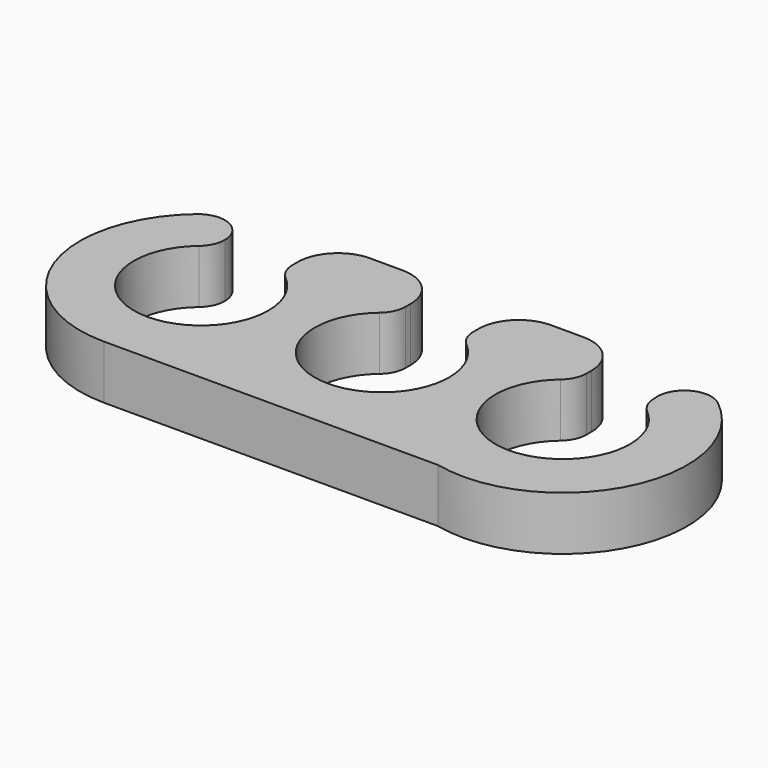
from build123d import *

# Parameters (mm, degrees)
F1_DEPTH = 2


with BuildPart() as f1:
    # F0 (on Top) → F1 (new body)
    with BuildSketch(Plane.XY):
        with BuildLine():
            ThreePointArc((-2.853481, -9.527818), (-4.466384, -13.937934), (-6.079287, -9.527818))
            ThreePointArc((-6.079287, -9.527818), (-5.817486, -9.184984), (-5.724449, -8.763772))
            ThreePointArc((-5.724449, -8.763772), (-6.303237, -7.85681), (-7.36961, -7.999726))
            ThreePointArc((-7.36961, -7.999726), (-8.692608, -12.983583), (-4.466384, -15.937934))
            Line((-4.466384, -15.937934), (7.933616, -15.937934))
            ThreePointArc((7.933616, -15.937934), (13.128044, -13.435908), (11.831449, -7.817985))
            ThreePointArc((11.831449, -7.817985), (10.703679, -7.740165), (10.223938, -8.763772))
            ThreePointArc((10.223938, -8.763772), (10.316976, -9.184984), (10.578777, -9.527818))
            ThreePointArc((10.578777, -9.527818), (8.965874, -13.937934), (7.352971, -9.527818))
            ThreePointArc((7.352971, -9.527818), (7.614772, -9.184984), (7.707809, -8.763772))
            Line((7.707809, -8.763772), (7.707809, -8.532316))
            ThreePointArc((7.707809, -8.532316), (7.26847, -7.471656), (6.207809, -7.032316))
            Line((6.207809, -7.032316), (5.007809, -7.032316))
            ThreePointArc((5.007809, -7.032316), (3.947149, -7.471656), (3.507809, -8.532316))
            Line((3.507809, -8.532316), (3.507809, -8.763772))
            ThreePointArc((3.507809, -8.763772), (3.600847, -9.184984), (3.862648, -9.527818))
            ThreePointArc((3.862648, -9.527818), (2.249745, -13.937934), (0.636842, -9.527818))
            ThreePointArc((0.636842, -9.527818), (0.898643, -9.184984), (0.99168, -8.763772))
            Line((0.99168, -8.763772), (0.99168, -8.532316))
            ThreePointArc((0.99168, -8.532316), (0.552341, -7.471656), (-0.50832, -7.032316))
            Line((-0.50832, -7.032316), (-1.70832, -7.032316))
            ThreePointArc((-1.70832, -7.032316), (-2.76898, -7.471656), (-3.20832, -8.532316))
            Line((-3.20832, -8.532316), (-3.20832, -8.763772))
            ThreePointArc((-3.20832, -8.763772), (-3.115282, -9.184984), (-2.853481, -9.527818))
        make_face()
    extrude(amount=F1_DEPTH)


solid = f1.part
